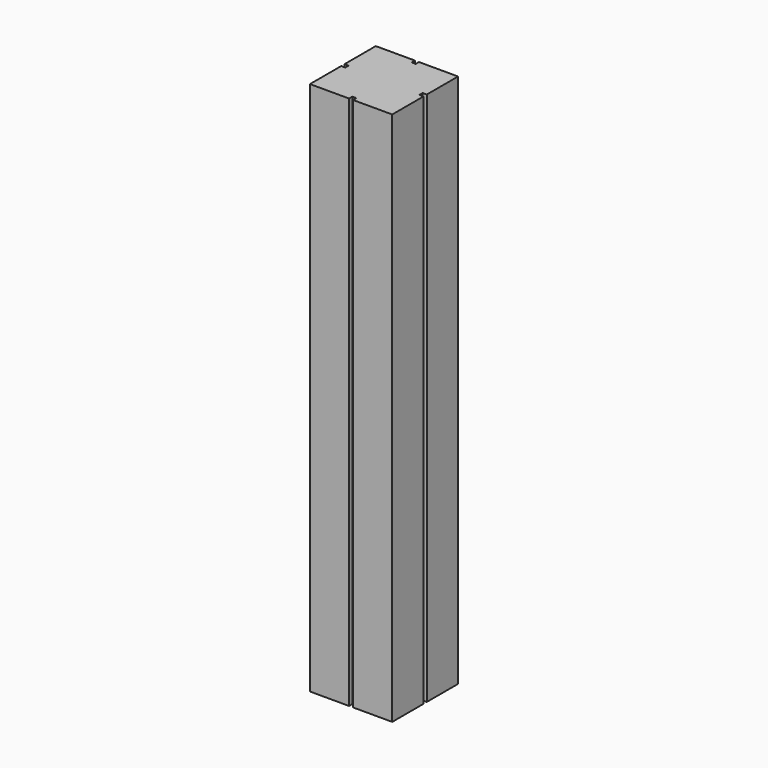
from build123d import *

# Parameters (mm, degrees)
F0_W     = 20
F0_H     = 20
F1_DEPTH = 130
F3_W     = 1
F3_H     = 1
F4_DEPTH = 130.001


with BuildPart() as f1:
    # F0 (on Top) → F1 (new body)
    with BuildSketch(Plane.XY):
        Rectangle(F0_W, F0_H)
    extrude(amount=F1_DEPTH)

    # F3 (on face) → F4 (cut, through all)
    with BuildSketch(Plane.XY.offset(130)):
        with Locations((-9.5, 0)):
            Rectangle(F3_W, F3_H)
        with Locations((0, 9.5)):
            Rectangle(F3_W, F3_H)
        with Locations((9.5, 0)):
            Rectangle(F3_W, F3_H)
        with Locations((0, -9.5)):
            Rectangle(F3_W, F3_H)
    extrude(amount=-F4_DEPTH, mode=Mode.SUBTRACT)


solid = f1.part
